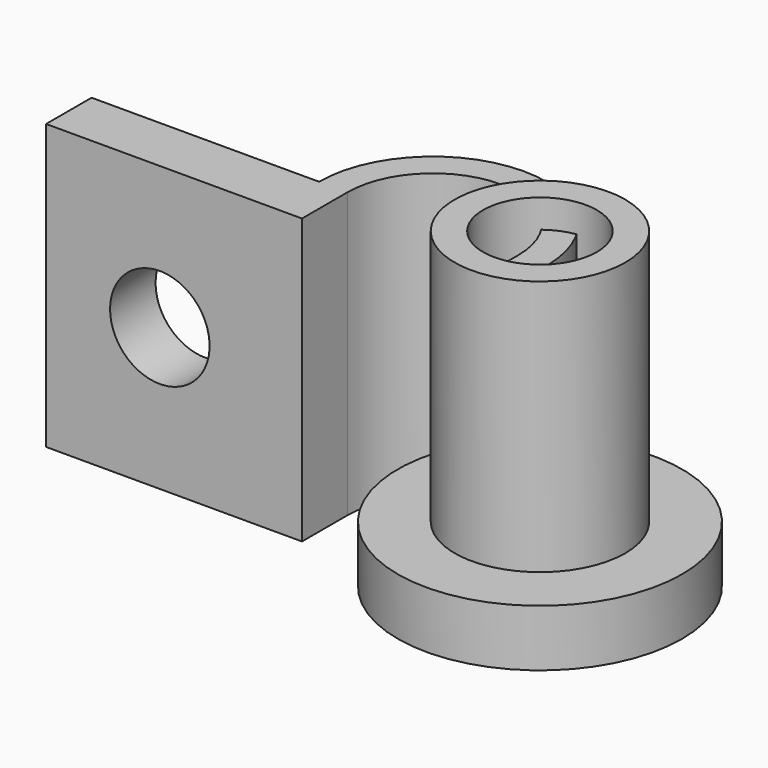
from build123d import *

# Parameters (mm, degrees)
SKETCH_R        = 5
PAD_DEPTH       = 2
SKETCH001_R     = 3
PAD001_DEPTH    = 9
SKETCH002_R     = 2
POCKET_DEPTH    = 11.001
PAD002_DEPTH    = 10
POCKET001_DEPTH = 10.001
SKETCH005_R     = 1.75
POCKET002_DEPTH = 2.001


with BuildPart() as body:
    # Sketch → Pad (new body)
    with BuildSketch(Plane.XY):
        Circle(SKETCH_R)
    extrude(amount=PAD_DEPTH)

    # Sketch001 (on Face3 of Pad) → Pad001 (join)
    with BuildSketch(Plane.XY.offset(2)):
        Circle(SKETCH001_R)
    extrude(amount=PAD001_DEPTH)

    # Sketch002 (on Face5 of Pad001) → Pocket (cut, through all)
    with BuildSketch(Plane.XY.offset(11)):
        Circle(SKETCH002_R)
    extrude(amount=-POCKET_DEPTH, mode=Mode.SUBTRACT)


with BuildPart() as body001:
    # Sketch003 → Pad002 (new body)
    with BuildSketch(Plane.XY):
        with BuildLine():
            Line((-15.768435, 0), (-7.768435, 0))
            ThreePointArc((0.231565, 0), (-3.768435, 4), (-7.768435, 0))
            Line((0.231565, 0), (0.231565, -2))
            Line((0.231565, -2), (-15.768435, -2))
            Line((-15.768435, -2), (-15.768435, 0))
        make_face()
    extrude(amount=PAD002_DEPTH)

    # Sketch004 (on Face7 of Pad002) → Pocket001 (cut, through all)
    with BuildSketch(Plane.XY.offset(10)):
        with BuildLine():
            ThreePointArc((-0.768435, -1.3e-05), (-3.768421, 3), (-6.768435, 1.5e-05))
            Line((-6.768435, -2), (-6.768435, 1.5e-05))
            Line((-0.768435, -2), (-6.768435, -2))
            Line((-0.768435, -1.3e-05), (-0.768435, -2))
        make_face()
    extrude(amount=-POCKET001_DEPTH, mode=Mode.SUBTRACT)

    # Sketch005 (on Face1 of Pocket001) → Pocket002 (cut, through all)
    with BuildSketch(Plane(origin=(0, 0, 0), x_dir=(-1, 0, 0), z_dir=(0, 1, 0))):
        with Locations((11.768435, 5)):
            Circle(SKETCH005_R)
    extrude(amount=-POCKET002_DEPTH, mode=Mode.SUBTRACT)


solid = Compound([body.part, body001.part])
